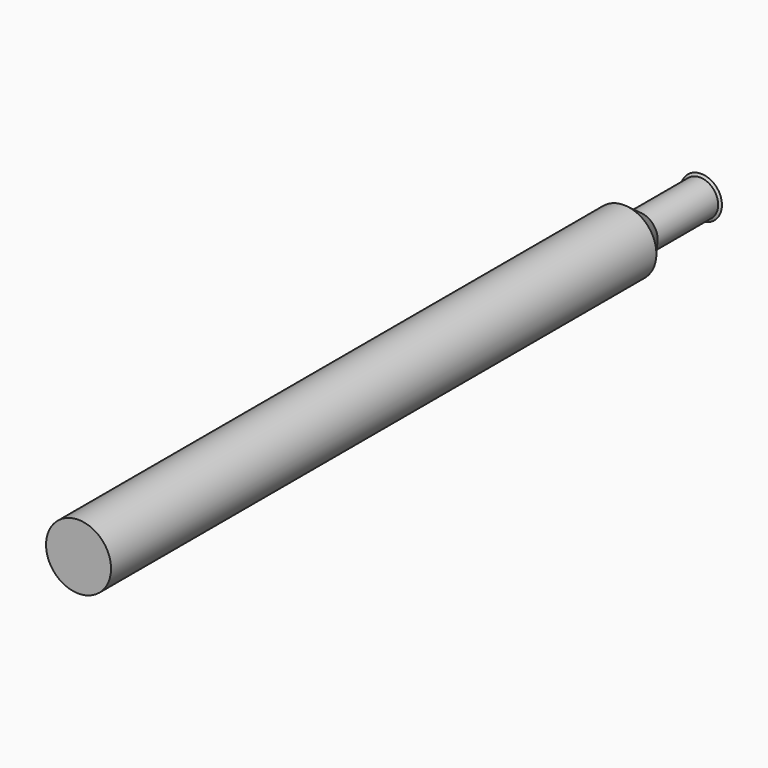
from build123d import *

# Parameters (mm, degrees)
F0_R     = 12.5
F1_DEPTH = 300


with BuildPart() as f1:
    # F0 (on Front) → F1 (new body)
    with BuildSketch(Plane.XZ):
        Circle(F0_R)
    extrude(amount=F1_DEPTH)

    # F2 (on Top) → F3 (revolve, cut)
    with BuildSketch(Plane.XY):
        Polygon((-7, -1.23094), (-8, -0.65359), (-6.867949, 0), (-14.199079, 3.67226), (-14.199079, -40.111776), (-7, -30.28938), align=None)
    revolve(axis=Axis((0, -1, 0), (0, -1, 0)), mode=Mode.SUBTRACT)


solid = f1.part
